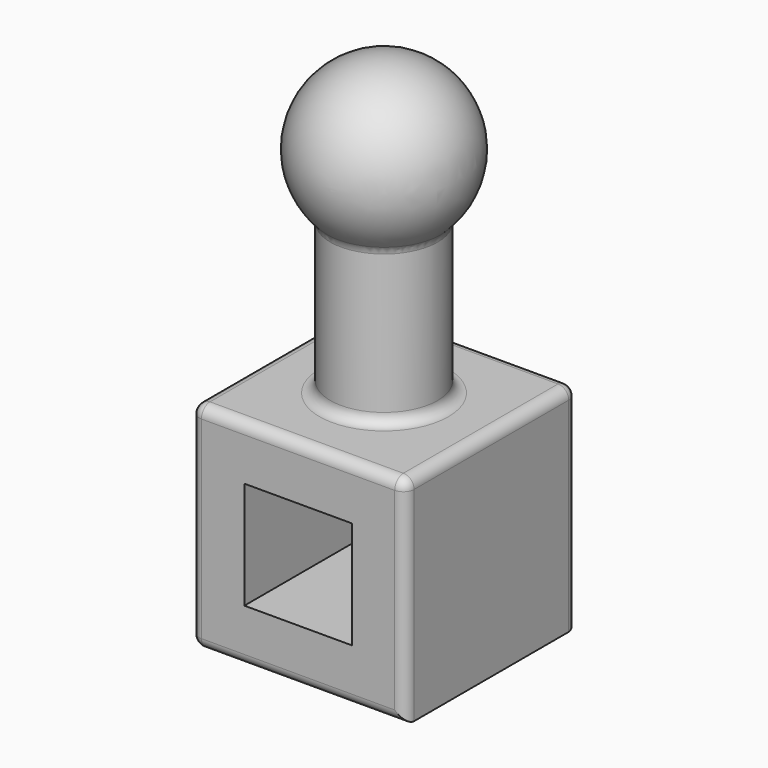
from build123d import *

# Parameters (mm, degrees)
F0_W     = 101.6
F0_H     = 101.6
F1_DEPTH = 101.6
F2_R     = 25.4
F3_DEPTH = 101.6
F6_W     = 50.8
F6_H     = 50.8
F7_DEPTH = 101.6
F8_R     = 5.08


with BuildPart() as f1:
    # F0 (on Top) → F1 (new body)
    with BuildSketch(Plane.XY):
        Rectangle(F0_W, F0_H)
    extrude(amount=F1_DEPTH)

    # F2 (on face) → F3 (join)
    with BuildSketch(Plane.XY.offset(101.6)):
        Circle(F2_R)
    extrude(amount=F3_DEPTH)

    # F4 (on face) → F5 (revolve)
    with BuildSketch(Plane.XY.offset(203.2)):
        with BuildLine():
            Line((0, -25.4), (0, -38.1))
            ThreePointArc((0, -38.1), (38.1, 0), (0, 38.1))
            Line((0, 38.1), (0, 25.4))
            ThreePointArc((0, 25.4), (17.9605122421, 17.9605122421), (25.4, 0))
            ThreePointArc((25.4, 0), (17.9605122421, -17.9605122421), (0, -25.4))
        make_face()
        with BuildLine():
            Line((0, 25.4), (0, -25.4))
            ThreePointArc((0, -25.4), (17.9605122421, -17.9605122421), (25.4, 0))
            ThreePointArc((25.4, 0), (17.9605122421, 17.9605122421), (0, 25.4))
        make_face()
    revolve(axis=Axis((0, 0, 203.2), (0, -1, 0)))

    # F6 (on face) → F7 (cut)
    with BuildSketch(Plane.XZ.offset(50.8)):
        with Locations((0, 50.8)):
            Rectangle(F6_W, F6_H)
    extrude(amount=-F7_DEPTH, mode=Mode.SUBTRACT)

    # F8
    f8_edges = [f1.edges().sort_by_distance(p)[0] for p in [
        (50.8, 0, 101.6),
        (0, 50.8, 101.6),
        (0, -50.8, 101.6),
        (-50.8, 0, 101.6),
        (50.8, -50.8, 50.8),
        (50.8, 50.8, 50.8),
        (0, -50.8, 0),
        (-50.8, -50.8, 50.8),
        (-50.8, 0, 0),
        (0, 50.8, 0),
        (-50.8, 50.8, 50.8),
        (-25.4, 0, 101.6),
        (-25.4, 0, 174.801937),
    ]]
    fillet(f8_edges, radius=F8_R)


solid = f1.part
